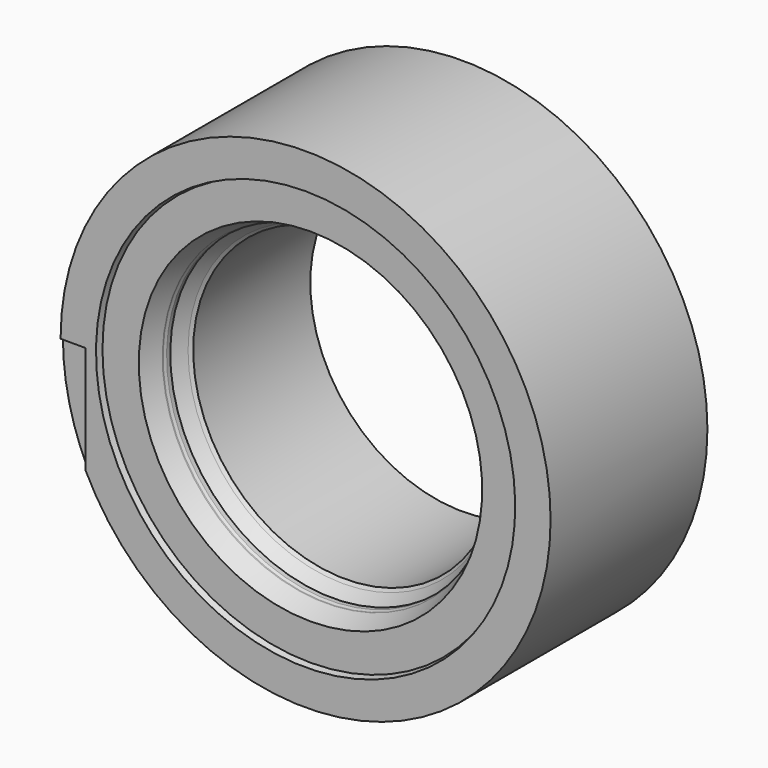
from build123d import *

# Parameters (mm, degrees)
F0_R     = 380.9365
F0_R_2   = 236.5375
F1_DEPTH = 304.8
F6_W     = 53.241849
F6_H     = 17.892758
F7_DEPTH = 231.14


with BuildPart() as f1:
    # F0 (on Front) → F1 (new body)
    with BuildSketch(Plane.XZ):
        Circle(F0_R)
        Circle(F0_R_2, mode=Mode.SUBTRACT)
    extrude(amount=-F1_DEPTH)

    # F2 (on Right) → F3 (revolve, cut)
    with BuildSketch(Plane.YZ):
        Polygon((-0.674657, 0), (0, 0), (9.525, 0), (9.525, 323.444068), (0, 325.9074), (-38.13795, 325.9074), align=None)
    revolve(axis=Axis((0, -111.905819, 0), (0, -1, 0)), mode=Mode.SUBTRACT)

    # F4 (on Right) → F5 (revolve, cut)
    with BuildSketch(Plane.YZ):
        Polygon((39.294728, 254.3556), (9.525, 266.9921), (-83.954796, 266.9921), (-48.076838, 187.997639), (83.789648, 229.984577), (72.7964, 240.977825), (52.705, 252.5776), (45.438306, 252.5776), (41.2496, 254.3556), align=None)
    revolve(axis=Axis((0, 0, 0), (0, -1, 0)), mode=Mode.SUBTRACT)

    # F6 (on Top) → F7 (cut)
    with BuildSketch(Plane.XY):
        with Locations((-368.849694, -4.439522)):
            Rectangle(F6_W, F6_H)
    extrude(amount=-F7_DEPTH, mode=Mode.SUBTRACT)


solid = f1.part
